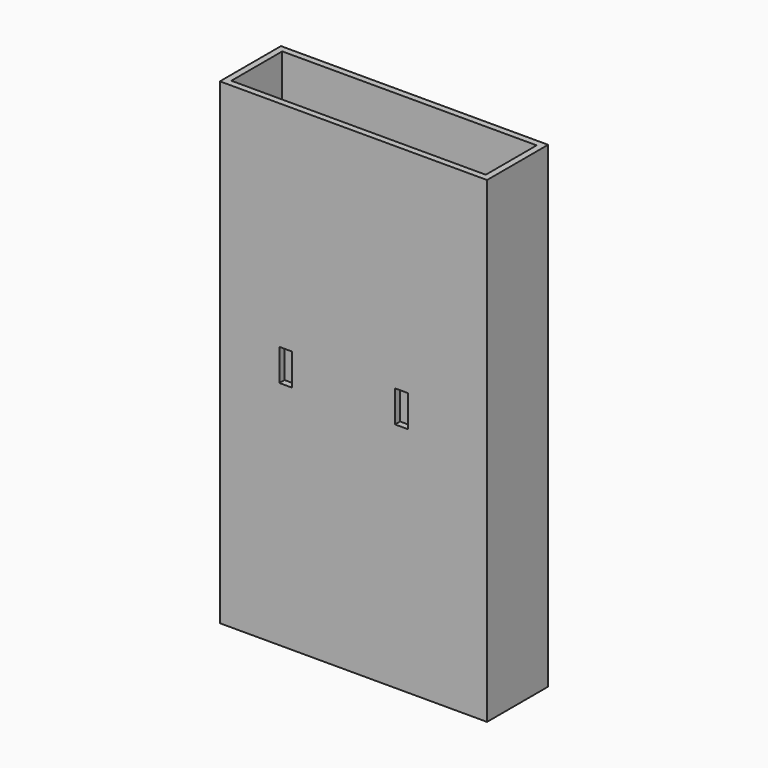
from build123d import *

# Parameters (mm, degrees)
F1_W     = 84
F1_H     = 24
F2_DEPTH = 146
F3_DEPTH = 4
F0_W     = 80
F0_H     = 20
F4_DEPTH = 146
F5_W     = 4
F5_H     = 10
F6_DEPTH = 3.9


with BuildPart() as f2:
    # F1 (on Top) → F2 (new body)
    with BuildSketch(Plane.XY):
        Rectangle(F1_W, F1_H)
    extrude(amount=F2_DEPTH)

    # F1 (on Top) → F3 (join)
    with BuildSketch(Plane.XY):
        Rectangle(F1_W, F1_H)
    extrude(amount=-F3_DEPTH)

    # F0 (on Top) → F4 (cut)
    with BuildSketch(Plane.XY):
        Rectangle(F0_W, F0_H)
    extrude(amount=F4_DEPTH, mode=Mode.SUBTRACT)

    # F5 (on face) → F6 (cut)
    with BuildSketch(Plane.XZ.offset(12)):
        with Locations((-21.282188, 73.58651)):
            Rectangle(F5_W, F5_H)
        with Locations((15.067677, 73.934341)):
            Rectangle(F5_W, F5_H)
    extrude(amount=-F6_DEPTH, mode=Mode.SUBTRACT)


solid = f2.part
